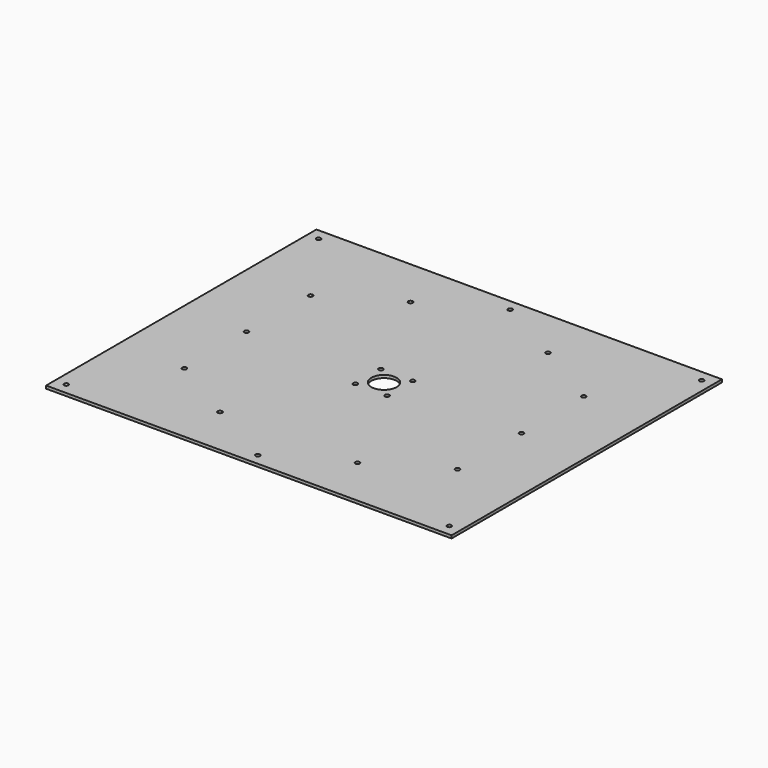
from build123d import *

# Parameters (mm, degrees)
F0_W     = 457.2
F0_H     = 381
F0_R     = 2.4892
F0_R_2   = 14.2875
F1_DEPTH = 3.175
F2_R     = 2.4892
F3_DEPTH = 3.176


with BuildPart() as f1:
    # F0 (on Top) → F1 (new body)
    with BuildSketch(Plane.XY):
        with Locations((228.6, 190.5)):
            Rectangle(F0_W, F0_H)
        with Locations((151.088372, 56.245922)):
            Circle(F0_R, mode=Mode.SUBTRACT)
        with Locations((74.620683, 101.6)):
            Circle(F0_R, mode=Mode.SUBTRACT)
        with Locations((210.639488, 172.539488)):
            Circle(F0_R, mode=Mode.SUBTRACT)
        with Locations((228.6, 12.7)):
            Circle(F0_R, mode=Mode.SUBTRACT)
        with Locations((306.111628, 56.245922)):
            Circle(F0_R, mode=Mode.SUBTRACT)
        with Locations((246.560512, 172.539488)):
            Circle(F0_R, mode=Mode.SUBTRACT)
        with Locations((382.579317, 101.6)):
            Circle(F0_R, mode=Mode.SUBTRACT)
        with Locations((73.576744, 190.5)):
            Circle(F0_R, mode=Mode.SUBTRACT)
        with Locations((74.620683, 279.4)):
            Circle(F0_R, mode=Mode.SUBTRACT)
        with Locations((210.639488, 208.460512)):
            Circle(F0_R, mode=Mode.SUBTRACT)
        with Locations((151.088372, 324.754078)):
            Circle(F0_R, mode=Mode.SUBTRACT)
        with Locations((228.6, 190.5)):
            Circle(F0_R_2, mode=Mode.SUBTRACT)
        with Locations((246.560512, 208.460512)):
            Circle(F0_R, mode=Mode.SUBTRACT)
        with Locations((383.623256, 190.5)):
            Circle(F0_R, mode=Mode.SUBTRACT)
        with Locations((382.579317, 279.4)):
            Circle(F0_R, mode=Mode.SUBTRACT)
        with Locations((306.111628, 324.754078)):
            Circle(F0_R, mode=Mode.SUBTRACT)
        with Locations((228.6, 368.3)):
            Circle(F0_R, mode=Mode.SUBTRACT)
    extrude(amount=F1_DEPTH)

    # F2 (on face) → F3 (cut, through all)
    with BuildSketch(Plane.XY.offset(3.175)):
        with Locations((12.7, 368.3)):
            Circle(F2_R)
        with Locations((444.5, 368.3)):
            Circle(F2_R)
        with Locations((444.5, 12.7)):
            Circle(F2_R)
        with Locations((12.7, 12.7)):
            Circle(F2_R)
    extrude(amount=-F3_DEPTH, mode=Mode.SUBTRACT)


solid = f1.part
